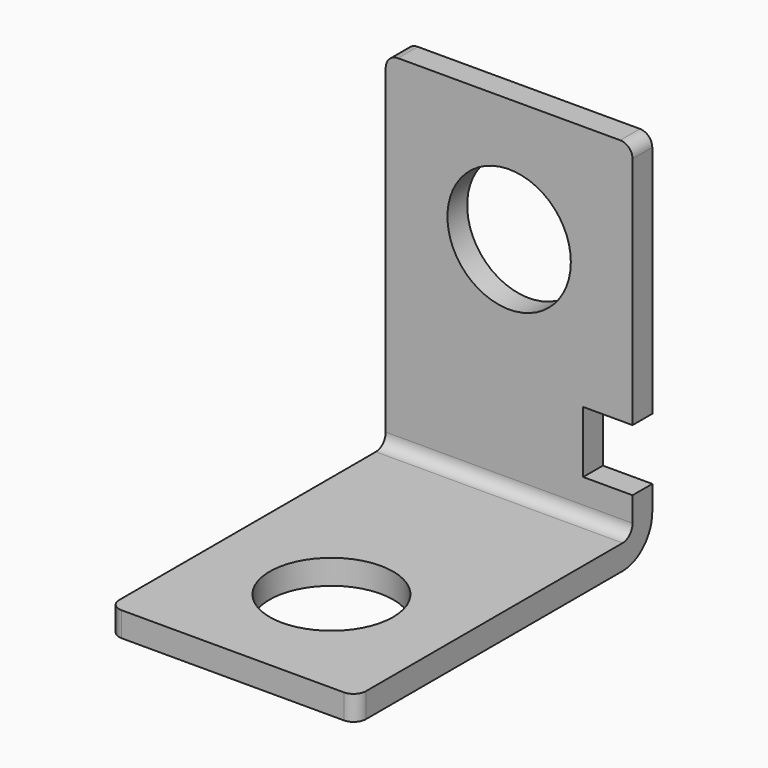
from build123d import *

# Parameters (mm, degrees)
F0_W     = 20
F0_H     = 30
F1_DEPTH = 2
F2_W     = 20
F2_H     = 2
F3_DEPTH = 28
F4_R     = 5
F5_DEPTH = 2.001
F6_R     = 5
F7_DEPTH = 2.001
F8_W     = 4
F8_H     = 5
F9_DEPTH = 2.001
F10_R    = 1
F11_R    = 3


with BuildPart() as f1:
    # F0 (on Top) → F1 (new body)
    with BuildSketch(Plane.XY):
        with Locations((10, 15)):
            Rectangle(F0_W, F0_H)
    extrude(amount=F1_DEPTH)

    # F2 (on face) → F3 (join)
    with BuildSketch(Plane.XY.offset(2)):
        with Locations((10, 29)):
            Rectangle(F2_W, F2_H)
    extrude(amount=F3_DEPTH)

    # F4 (on face) → F5 (cut, through all)
    with BuildSketch(Plane.XY.offset(2)):
        with Locations((10, 10)):
            Circle(F4_R)
    extrude(amount=-F5_DEPTH, mode=Mode.SUBTRACT)

    # F6 (on face) → F7 (cut, through all)
    with BuildSketch(Plane.XZ.offset(-28)):
        with Locations((10, 20)):
            Circle(F6_R)
    extrude(amount=-F7_DEPTH, mode=Mode.SUBTRACT)

    # F8 (on face) → F9 (cut, through all)
    with BuildSketch(Plane.XZ.offset(-28)):
        with Locations((18, 7.5)):
            Rectangle(F8_W, F8_H)
    extrude(amount=-F9_DEPTH, mode=Mode.SUBTRACT)

    # F10
    f10_edges = [f1.edges().sort_by_distance(p)[0] for p in [
        (0, 0, 1),
        (20, 0, 1),
        (20, 29, 30),
        (0, 29, 30),
        (10, 28, 2),
    ]]
    fillet(f10_edges, radius=F10_R)

    # F11
    f11_edges = [f1.edges().sort_by_distance(p)[0] for p in [
        (10, 30, 0),
    ]]
    fillet(f11_edges, radius=F11_R)


solid = f1.part
